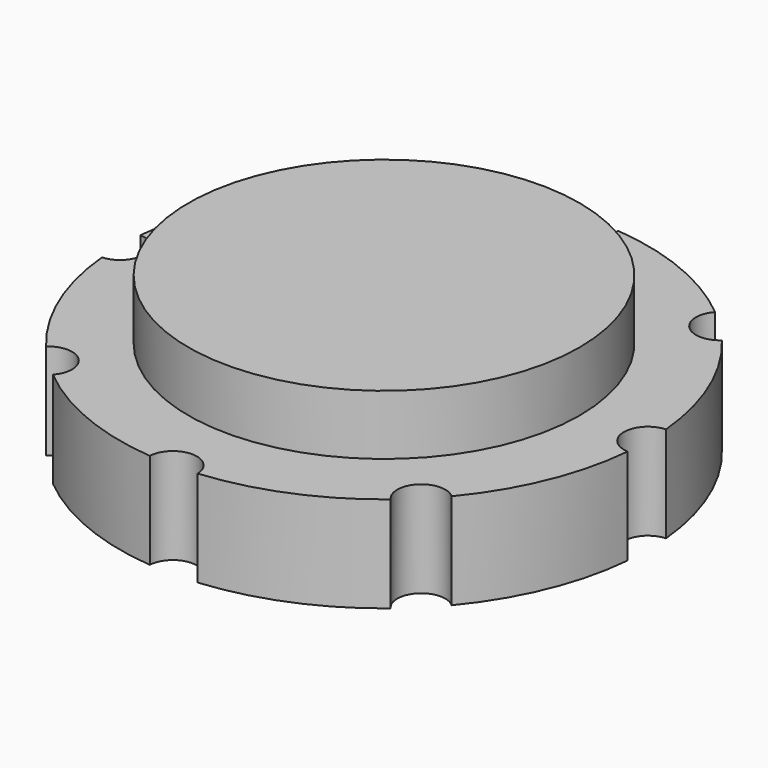
from build123d import *

# Parameters (mm, degrees)
F0_R     = 22
F1_DEPTH = 8
F2_R     = 16.3
F3_DEPTH = 5
F4_R     = 2
F5_DEPTH = 25


with BuildPart() as f1:
    # F0 (on Top) → F1 (new body)
    with BuildSketch(Plane.XY):
        Circle(F0_R)
    extrude(amount=F1_DEPTH)

    # F2 (on face) → F3 (join)
    with BuildSketch(Plane.XY.offset(8)):
        Circle(F2_R)
    extrude(amount=F3_DEPTH)

    # F4 (on face) → F5 (cut)
    with BuildSketch(Plane(origin=(0, 0, 0), x_dir=(1, 0, 0), z_dir=(0, 0, -1))):
        with Locations((22, 0)):
            Circle(F4_R)
        with Locations((15.556349, -15.556349)):
            Circle(F4_R)
        with Locations((0, -22)):
            Circle(F4_R)
        with Locations((-15.556349, -15.556349)):
            Circle(F4_R)
        with Locations((-22, 0)):
            Circle(F4_R)
        with Locations((-15.556349, 15.556349)):
            Circle(F4_R)
        with Locations((0, 22)):
            Circle(F4_R)
        with Locations((15.556349, 15.556349)):
            Circle(F4_R)
    extrude(amount=-F5_DEPTH, mode=Mode.SUBTRACT)


solid = f1.part
